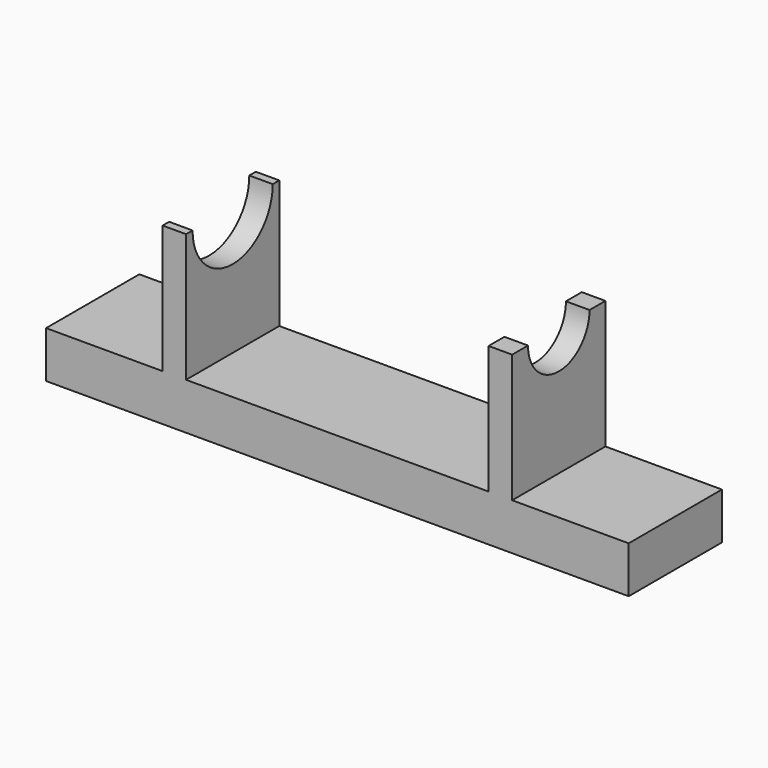
from build123d import *

# Parameters (mm, degrees)
F0_W      = 250
F0_H      = 50
F1_DEPTH  = 20
F2_W      = 10.137797147
F2_H      = 50
F3_DEPTH  = 55
F5_DEPTH  = 200.001
F6_W      = 12.0579496026
F6_H      = 50
F7_DEPTH  = 55
F9_DEPTH  = 12.0579496026
F10_DEPTH = 2


with BuildPart() as f1:
    # F0 (on Top) → F1 (new body)
    with BuildSketch(Plane.XY):
        with Locations((2.2913627326, -47.1521499132)):
            Rectangle(F0_W, F0_H)
    extrude(amount=F1_DEPTH)

    # F2 (on face) → F3 (join)
    with BuildSketch(Plane.XY.offset(20)):
        with Locations((72.2224641591, -47.1521499132)):
            Rectangle(F2_W, F2_H)
    extrude(amount=F3_DEPTH)

    # F4 (on face) → F5 (cut, through all)
    with BuildSketch(Plane.YZ.offset(77.2913627326)):
        with BuildLine():
            ThreePointArc((-63.6521499132, 75), (-47.1521499132, 58.5), (-30.6521499132, 75))
            Line((-30.6521499132, 75), (-63.6521499132, 75))
        make_face()
    extrude(amount=-F5_DEPTH, mode=Mode.SUBTRACT)

    # F6 (on face) → F7 (join, through all)
    with BuildSketch(Plane.XY.offset(20)):
        with Locations((-66.679662466, -47.1521499132)):
            Rectangle(F6_W, F6_H)
    extrude(amount=F7_DEPTH)

    # F8 (on face) → F9 (cut, through all)
    with BuildSketch(Plane(origin=(-72.7086372674, 0, 0), x_dir=(0, -1, 0), z_dir=(-1, 0, 0))):
        with BuildLine():
            ThreePointArc((25.6521499132, 75), (47.1521499132, 53.5), (68.6521499132, 75))
            Line((68.6521499132, 75), (25.6521499132, 75))
        make_face()
    extrude(amount=-F9_DEPTH, mode=Mode.SUBTRACT)

    # F10 (cut): a face of the model
    f10_faces = [f1.faces().sort_by_distance(p)[0] for p in [
        (-60.6506876647, -47.1521499132, 40.9076845732),
    ]]
    extrude(f10_faces, amount=-F10_DEPTH, mode=Mode.SUBTRACT)


solid = f1.part
